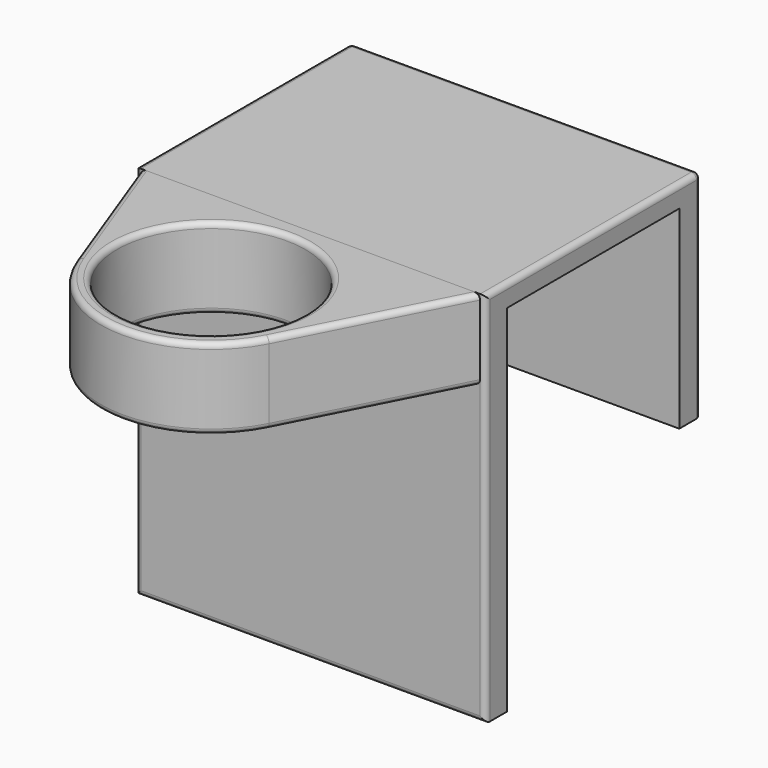
from build123d import *

# Parameters (mm, degrees)
F0_W     = 65
F0_H     = 70
F1_DEPTH = 50
F2_W     = 65
F2_H     = 40
F3_DEPTH = 66
F4_DEPTH = 30
F5_R     = 17.5
F6_DEPTH = 25
F7_DEPTH = 15
F8_R     = 1
F8_2_R   = 1


with BuildPart() as f1:
    # F0 (on Front) → F1 (new body)
    with BuildSketch(Plane.XZ):
        with Locations((-16.8366907164, 0.1400746397)):
            Rectangle(F0_W, F0_H)
    extrude(amount=-F1_DEPTH)

    # F2 (on face) → F3 (cut, through all)
    with BuildSketch(Plane(origin=(0, 0, -34.8599253603), x_dir=(1, 0, 0), z_dir=(0, 0, -1))):
        with Locations((-16.8366907164, -25)):
            Rectangle(F2_W, F2_H)
    extrude(amount=-F3_DEPTH, mode=Mode.SUBTRACT)

    # F4 (cut, through all): a face of the model
    f4_faces = [f1.faces().sort_by_distance(p)[0] for p in [
        (-16.8366907164, 47.5, -34.8599253603),
    ]]
    extrude(f4_faces, amount=-F4_DEPTH, mode=Mode.SUBTRACT)

    # F5 (on face) → F6 (cut)
    with BuildSketch(Plane.XY.offset(35.1400746397)):
        with Locations((-18.8944296206, -20.5)):
            Circle(F5_R)
    extrude(amount=-F6_DEPTH, mode=Mode.SUBTRACT)

    # F8#2
    f8_2_edges = [f1.edges().sort_by_distance(p)[0] for p in [
        (15.663309, 25, 35.140075),
        (-49.336691, 25, 35.140075),
        (-16.836691, 50, -4.859925),
        (15.663309, 50, 15.140075),
        (-49.336691, 50, 15.140075),
        (-16.836691, 0, -34.859925),
        (-16.836691, 50, 35.140075),
        (-49.336691, 0, 0.140075),
        (15.663309, 0, 0.140075),
    ]]
    fillet(f8_2_edges, radius=F8_2_R)


with BuildPart() as f7:
    # F5 (on face) → F7 (new body)
    with BuildSketch(Plane.XY.offset(35.1400746397)):
        with BuildLine():
            Line((-48.3366907164, 0), (-38.1208169713, -27.6130886006))
            ThreePointArc((-38.1208169713, -27.6130886006), (-35.718048677, -8.7860834114), (-18.8944296206, 0))
            Line((-18.8944296206, 0), (-48.3366907164, 0))
        make_face()
        with BuildLine():
            ThreePointArc((1.6055703794, -20.5), (1.0324718437, -25.3133769884), (-0.6547806482, -29.8576281911))
            Line((-0.6547806482, -29.8576281911), (14.6633092836, 0))
            Line((14.6633092836, 0), (-18.8944296206, 0))
            ThreePointArc((-18.8944296206, 0), (-4.3987406062, -6.0043109857), (1.6055703794, -20.5))
        make_face()
        with BuildLine():
            ThreePointArc((-18.8944296206, 0), (-35.718048677, -8.7860834114), (-38.1208169713, -27.6130886006))
            ThreePointArc((-38.1208169713, -27.6130886006), (-20.1203589212, -40.9633110065), (-0.6547806482, -29.8576281911))
            ThreePointArc((-0.6547806482, -29.8576281911), (1.0324718437, -25.3133769884), (1.6055703794, -20.5))
            ThreePointArc((1.6055703794, -20.5), (-4.3987406062, -6.0043109857), (-18.8944296206, 0))
        make_face()
        with Locations((-18.8944296206, -20.5)):
            Circle(F5_R, mode=Mode.SUBTRACT)
    extrude(amount=-F7_DEPTH)

    # F8
    f8_edges = [f7.edges().sort_by_distance(p)[0] for p in [
        (-43.228754, -13.806544, 35.140075),
        (-36.39443, -20.5, 35.140075),
        (-43.228754, -13.806544, 20.140075),
        (-36.39443, -20.5, 20.140075),
    ]]
    fillet(f8_edges, radius=F8_R)


solid = Compound([f1.part, f7.part])
